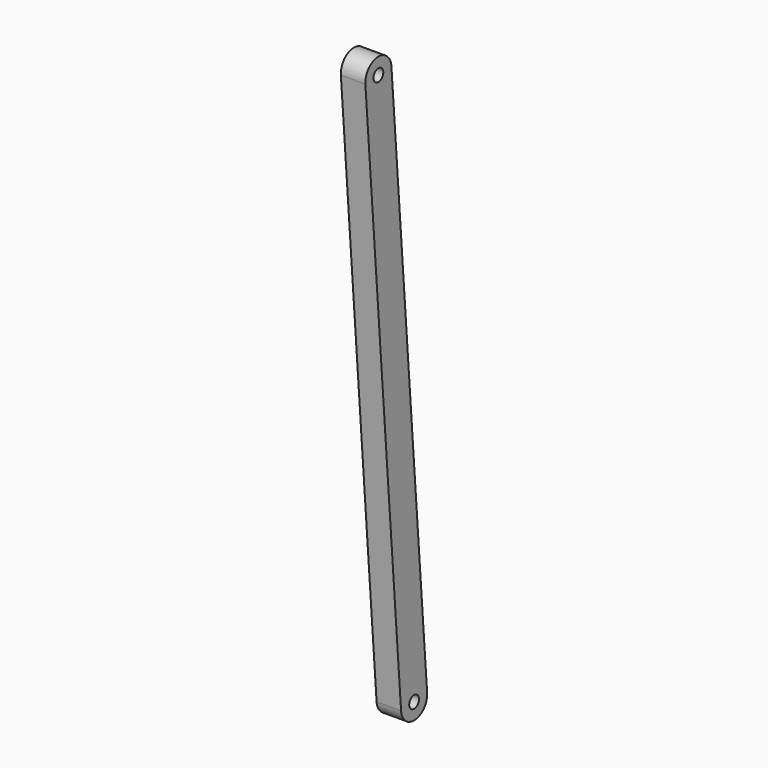
from build123d import *

# Parameters (mm, degrees)
F2_R     = 4.7625
F3_DEPTH = 19.05


with BuildPart() as f3:
    # F2 (on Right) → F3 (new body)
    with BuildSketch(Plane.YZ):
        with BuildLine():
            ThreePointArc((-771.797877, 699.955234), (-785.45089, 711.62465), (-797.120305, 697.971637))
            Line((-797.120305, 697.971637), (-762.407361, 254.829153))
            ThreePointArc((-762.407361, 254.829153), (-748.754349, 243.159737), (-737.084934, 256.81275))
            Line((-737.084934, 256.81275), (-771.797877, 699.955234))
        make_face()
        with Locations((-749.746147, 255.820951)):
            Circle(F2_R, mode=Mode.SUBTRACT)
        with Locations((-784.459091, 698.963436)):
            Circle(F2_R, mode=Mode.SUBTRACT)
    extrude(amount=F3_DEPTH)


solid = f3.part
